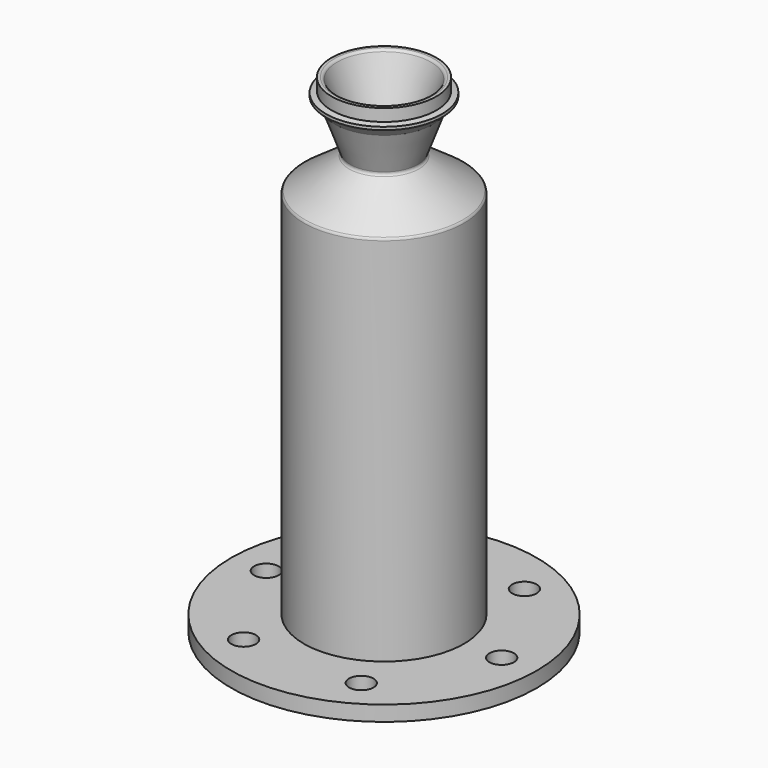
from build123d import *

# Parameters (mm, degrees)
F0_R     = 50
F0_R_2   = 4
F0_R_3   = 23
F2_DEPTH = 5
F4_R     = 1
F5_R     = 1


with BuildPart() as f2:
    # F0 (on Top) → F2 (new body)
    with BuildSketch(Plane.XY):
        Circle(F0_R)
        with Locations((-19.25, -33.341978)):
            Circle(F0_R_2, mode=Mode.SUBTRACT)
        with Locations((19.25, -33.341978)):
            Circle(F0_R_2, mode=Mode.SUBTRACT)
        with Locations((-38.5, 0)):
            Circle(F0_R_2, mode=Mode.SUBTRACT)
        with Locations((-19.25, 33.341978)):
            Circle(F0_R_2, mode=Mode.SUBTRACT)
        Circle(F0_R_3, mode=Mode.SUBTRACT)
        with Locations((38.5, 0)):
            Circle(F0_R_2, mode=Mode.SUBTRACT)
        with Locations((19.25, 33.341978)):
            Circle(F0_R_2, mode=Mode.SUBTRACT)
    extrude(amount=F2_DEPTH)

    # F1 (on Front) → F3 (revolve)
    with BuildSketch(Plane.XZ):
        Polygon((-26.2, 0), (-23, 0), (-23, 125), (-7, 136.203321), (-15.550504, 159.695636), (-17.154602, 159.695636), (-17.154602, 155.695636), (-19.017419, 155.263182), (-19.017419, 154.289458), (-15.842509, 151.14174), (-10.846829, 137.416221), (-26.2, 126.665815), align=None)
    revolve(axis=Axis((0, 0, 80), (0, 0, 1)))

    # F4
    f4_edges = [f2.edges().sort_by_distance(p)[0] for p in [
        (7, 0, 136.203321),
        (26.2, 0, 126.665815),
        (15.550504, 0, 159.695636),
    ]]
    fillet(f4_edges, radius=F4_R)

    # F5
    f5_edges = [f2.edges().sort_by_distance(p)[0] for p in [
        (10.846829, 0, 137.416221),
    ]]
    fillet(f5_edges, radius=F5_R)


solid = f2.part
